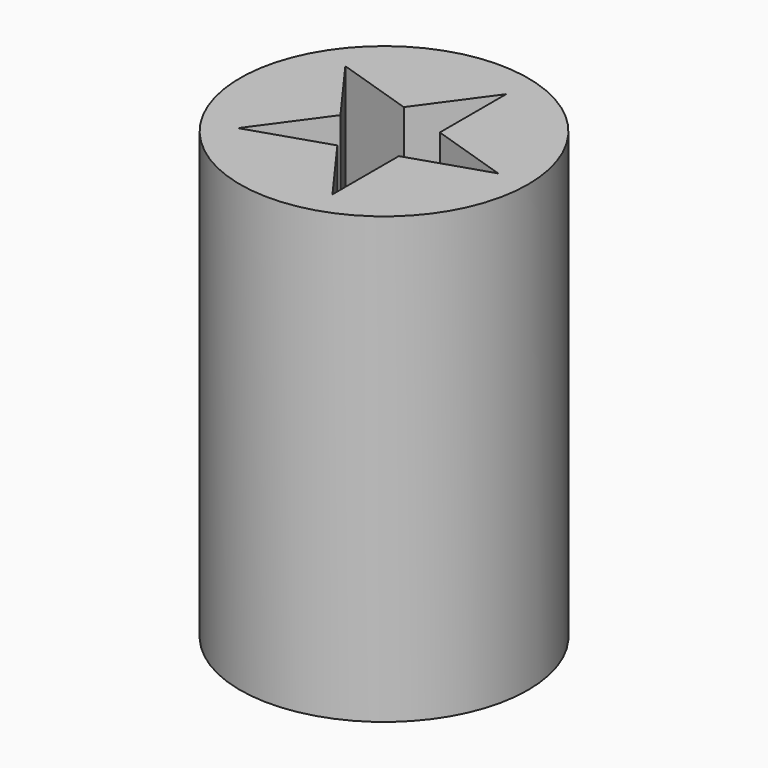
from build123d import *

# Parameters (mm, degrees)
F0_R     = 8.575
F1_DEPTH = 26.5
F3_DEPTH = 26.5


with BuildPart() as f1:
    # F0 (on Top) → F1 (new body)
    with BuildSketch(Plane.XY):
        Circle(F0_R)
    extrude(amount=F1_DEPTH)

    # F2 (on face) → F3 (cut)
    with BuildSketch(Plane.XY.offset(26.5)):
        Polygon((-0.8024391856, 2.4696538712), (-5.5, 3.995983904), (-2.5967477525, 0), align=None)
        Polygon((2.1008130619, 6.4656377752), (-0.8024391856, 2.4696538712), (2.1008130619, 1.5263300328), align=None)
        Polygon((-0.8024391856, 2.4696538712), (-2.5967477525, 0), (-0.8024391856, -2.4696538712), (2.1008130619, -1.5263300328), (2.1008130619, 1.5263300328), align=None)
        Polygon((-0.8024391856, -2.4696538712), (-2.5967477525, 0), (-5.5, -3.995983904), align=None)
        Polygon((2.1008130619, -1.5263300328), (-0.8024391856, -2.4696538712), (2.1008130619, -6.4656377752), align=None)
        Polygon((6.7983738762, 0), (2.1008130619, 1.5263300328), (2.1008130619, -1.5263300328), align=None)
    extrude(amount=-F3_DEPTH, mode=Mode.SUBTRACT)


solid = f1.part
